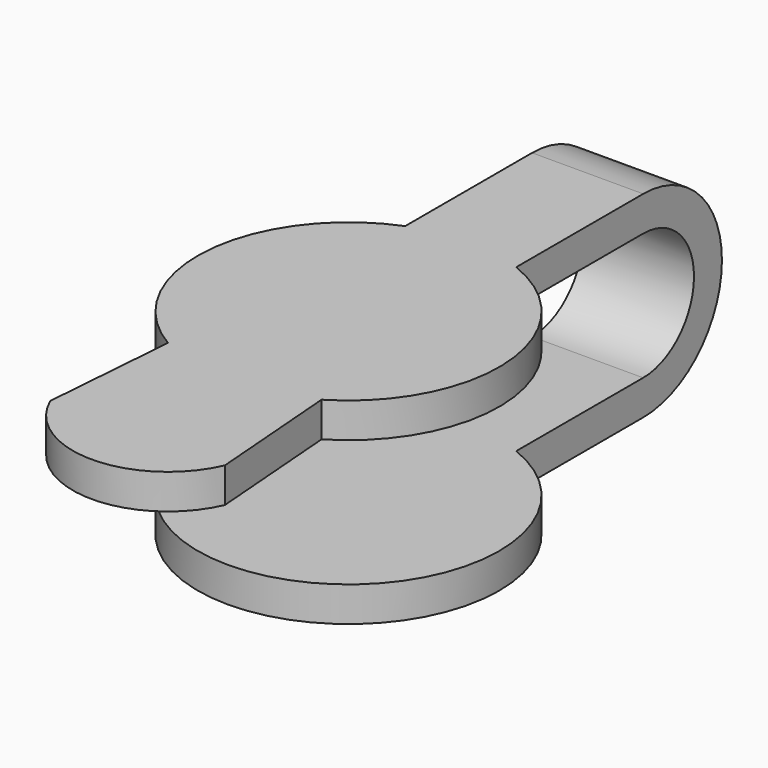
from build123d import *

# Parameters (mm, degrees)
PAD013_DEPTH            = 1.1
PAD014_DEPTH            = 1.75
PAD014_DEPTH_BACK       = 1.75
PAD015_DEPTH            = 1.1
BODY008_PLACEMENT_ANGLE = 90


with BuildPart() as part:
    # Sketch022 → Pad013 (new body)
    with BuildSketch(Plane.XY):
        with BuildLine():
            ThreePointArc((-4.41588, -1.75), (-0.373115, -4.735323), (4.08731, -2.42))
            Line((4.08731, -2.42), (8.306624, -2.75))
            ThreePointArc((8.306624, -2.75), (10.107666, 0), (8.306624, 2.75))
            Line((4.08731, 2.42), (8.306624, 2.75))
            ThreePointArc((4.08731, 2.42), (-0.373115, 4.735323), (-4.41588, 1.75))
            Line((-4.41588, -1.75), (-4.41588, 1.75))
        make_face()
    extrude(amount=PAD013_DEPTH)

    # Sketch023 → Pad014 (join, two sides)
    with BuildSketch(Plane.XZ) as pad014_sk:
        with BuildLine():
            ThreePointArc((-9.41588, 0), (-11.41588, -2), (-9.41588, -4))
            Line((-9.41588, -4), (-4.41588, -4))
            Line((-4.41588, -4), (-4.41588, -5.1))
            Line((-9.41588, -5.1), (-4.41588, -5.1))
            ThreePointArc((-9.41588, 1.1), (-12.51588, -2), (-9.41588, -5.1))
            Line((-4.41588, 1.1), (-9.41588, 1.1))
            Line((-4.41588, 1.1), (-4.41588, 0))
            Line((-9.41588, 0), (-4.41588, 0))
        make_face()
    extrude(amount=PAD014_DEPTH)
    extrude(pad014_sk.sketch, amount=-PAD014_DEPTH_BACK)

    # Sketch025 (on Face9 of Pad014) → Pad015 (join)
    with BuildSketch(Plane.XY.offset(-4)):
        with BuildLine():
            ThreePointArc((-4.41588, -1.75), (4.75, 0), (-4.41588, 1.75))
            Line((-4.41588, 1.75), (-4.41588, -1.75))
        make_face()
    extrude(amount=-PAD015_DEPTH)


with BuildPart() as part_1:
    # Body008 placement: moved
    add(part.part.moved(Location((0, 0, 4))).rotate(Axis((0, 0, 4), (0, 0, -1)), BODY008_PLACEMENT_ANGLE))


solid = part_1.part
